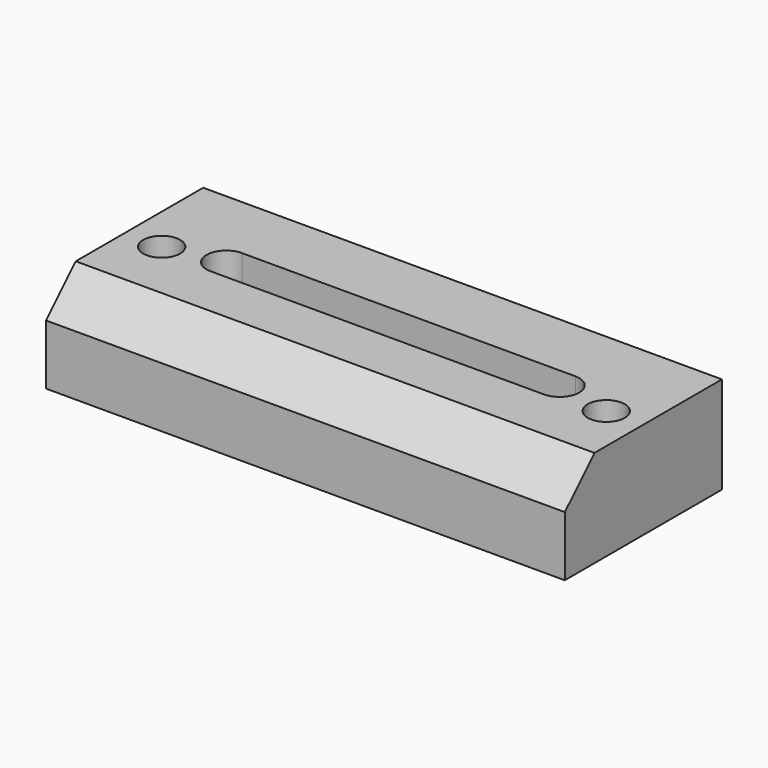
from build123d import *

# Parameters (mm, degrees)
F0_W     = 88.9
F0_H     = 33.655
F0_R     = 3.175
F1_DEPTH = 16.637
F3_DEPTH = 12.7
F5_DEPTH = 88.901


with BuildPart() as f1:
    # F0 (on Top) → F1 (new body)
    with BuildSketch(Plane.XY):
        Rectangle(F0_W, F0_H)
        with Locations((-38.1, 0)):
            Circle(F0_R, mode=Mode.SUBTRACT)
        with Locations((38.1, 0)):
            Circle(F0_R, mode=Mode.SUBTRACT)
    extrude(amount=-F1_DEPTH)

    # F2 (on face) → F3 (cut)
    with BuildSketch(Plane.XY):
        with BuildLine():
            Line((28.575, 5.2705), (-28.575, 5.2705))
            ThreePointArc((-28.575, 5.2705), (-31.9405, 1.905), (-28.575, -1.4605))
            Line((-28.575, -1.4605), (28.575, -1.4605))
            ThreePointArc((28.575, -1.4605), (31.9405, 1.905), (28.575, 5.2705))
        make_face()
    extrude(amount=-F3_DEPTH, mode=Mode.SUBTRACT)

    # F4 (on face) → F5 (cut, through all)
    with BuildSketch(Plane(origin=(-44.45, 0, 0), x_dir=(0, -1, 0), z_dir=(-1, 0, 0))):
        Polygon((16.8275, 0), (10.4775, 0), (16.8275, -6.35), align=None)
    extrude(amount=-F5_DEPTH, mode=Mode.SUBTRACT)


solid = f1.part
